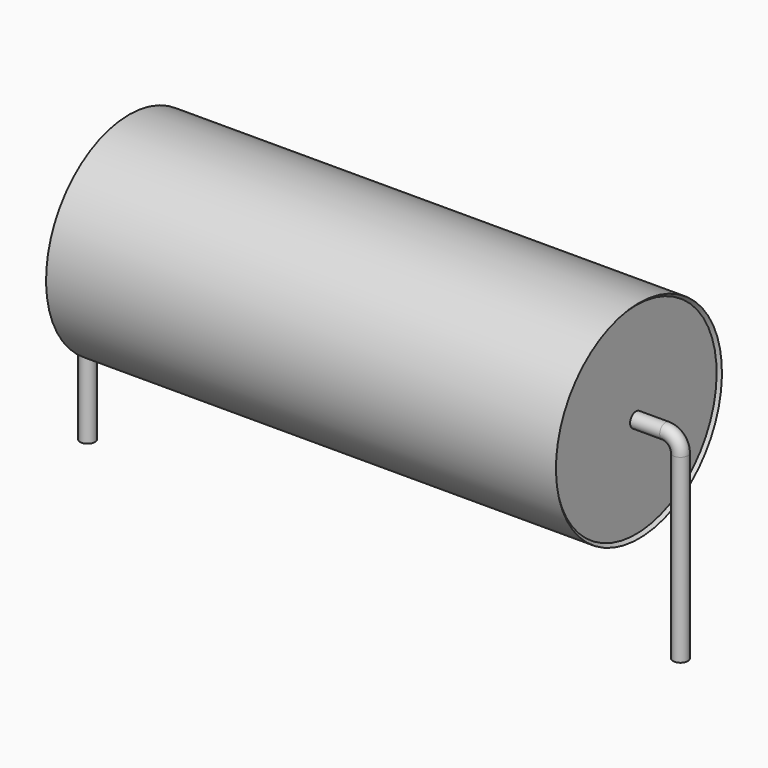
from build123d import *

# Parameters (mm, degrees)
SKETCH_R = 0.25


with BuildPart() as sweep_body:
    # Sweep: sweep along a path in Sketch001
    with BuildLine(Plane.XZ) as sweep_path:
        Line((0, -3), (0, 3.1))
        ThreePointArc((0, 3.1), (0.146444, 3.453551), (0.499993, 3.6))
        Line((0.499993, 3.6), (19.5, 3.6))
        ThreePointArc((19.5, 3.6), (19.853553, 3.453553), (20, 3.1))
        Line((20, 3.1), (20, -3))
    # Sketch → Sweep (sweep)
    with BuildSketch(Plane.XY.offset(-2)):
        Circle(SKETCH_R)
    sweep(path=sweep_path.line)


with BuildPart() as revolution:
    # Sketch002 → Revolution (revolve)
    with BuildSketch(Plane.XZ):
        Polygon((1.4, 7.1), (18.6, 7.1), (18.5, 7), (18.5, 3.6), (1.5, 3.6), (1.5, 7), align=None)
    revolve(axis=Axis((7.611803, 0, 3.6), (1, 0, 0)))


solid = Compound([sweep_body.part, revolution.part])
